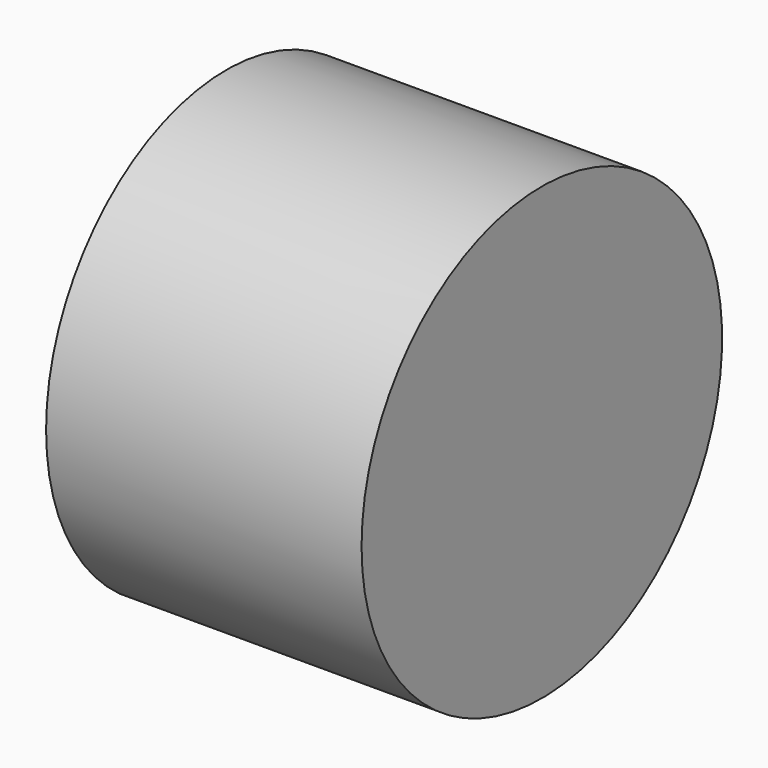
from build123d import *

# Parameters (mm, degrees)
F0_W = 177.8
F0_H = 127
F0_R = 38.1


with BuildPart() as f1:
    # F0 (on Top) → F1 (revolve)
    with BuildSketch(Plane.XY):
        with Locations((26.126407, 8.00485)):
            Rectangle(F0_W, F0_H)
        with Locations((51.392965, -2.548842)):
            Circle(F0_R, mode=Mode.SUBTRACT)
    revolve(axis=Axis((26.126407, 71.50485, 0), (1, 0, 0)))


solid = f1.part
